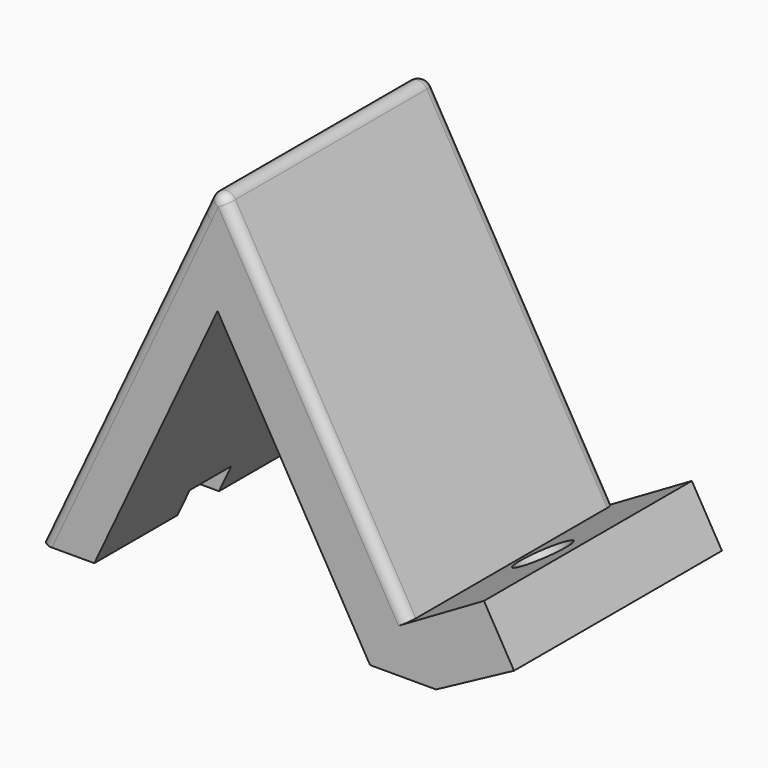
from build123d import *

# Parameters (mm, degrees)
F1_DEPTH = 63.5
F2_R     = 6.4197594032
F3_DEPTH = 23.4593788755
F4_W     = 124.8833438046
F4_H     = 12.7
F5_DEPTH = 6.35
F6_R     = 2.54


with BuildPart() as f1:
    # F0 (on Front) → F1 (new body)
    with BuildSketch(Plane.XZ):
        Polygon((58.006938024, -82.3166997439), (39.3296977039, -93.179662284), (-7.1721252495, -13.2267286881), (-10.8084349941, -20.9649698821), (-50.382357985, -105.180172272), (-37.2205925623, -105.180172272), (-7.1087183348, -41.1006625658), (30.1608836833, -105.180172272), (46.3093739423, -105.180172272), (65.3555968279, -94.9516200987), align=None)
    extrude(amount=F1_DEPTH)

    # F2 (on face) → F3 (cut, through all)
    with BuildSketch(Plane(origin=(50.4372636726, 0, -86.7193356531), x_dir=(0.8644246839, 0, 0.5027623353), z_dir=(-0.5027623353, 0, 0.8644246839))):
        with Locations((-3.9596631056, -31.75)):
            Circle(F2_R)
    extrude(amount=-F3_DEPTH, mode=Mode.SUBTRACT)

    # F4 (on face) → F5 (cut)
    with BuildSketch(Plane(origin=(0, 0, -105.180172272), x_dir=(1, 0, 0), z_dir=(0, 0, -1))):
        with Locations((11.0299456865, 31.75)):
            Rectangle(F4_W, F4_H)
    extrude(amount=-F5_DEPTH, mode=Mode.SUBTRACT)

    # F6
    f6_edges = [f1.edges().sort_by_distance(p)[0] for p in [
        (-7.172125, -31.75, -13.226729),
        (16.078786, -63.5, -53.203195),
        (16.078786, 0, -53.203195),
        (-28.777242, -63.5, -59.20345),
        (-28.777242, 0, -59.20345),
    ]]
    fillet(f6_edges, radius=F6_R)


solid = f1.part
